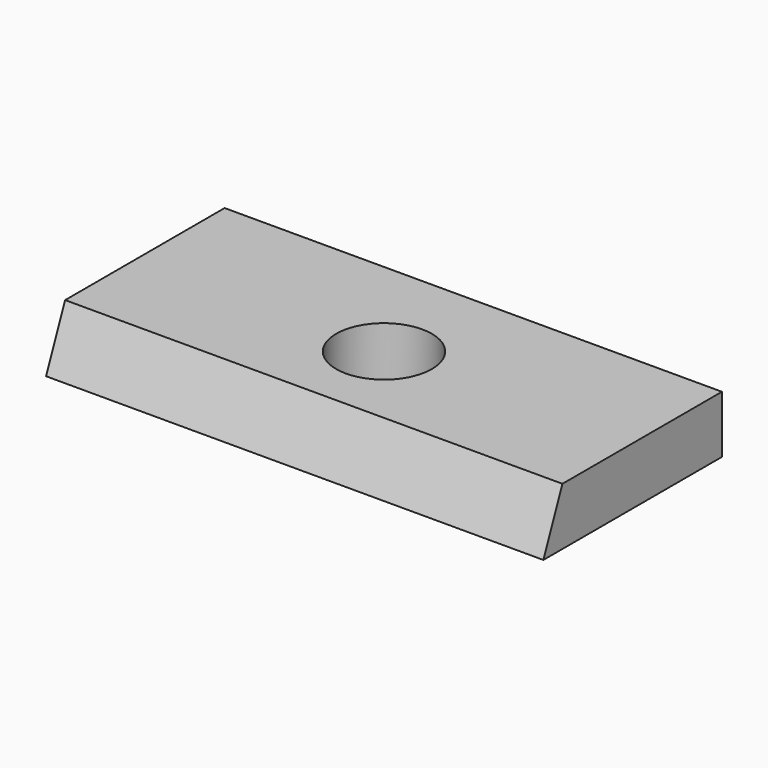
from build123d import *

# Parameters (mm, degrees)
F0_W     = 156
F0_H     = 70
F0_R     = 15
F1_DEPTH = 18
F3_DEPTH = 156


with BuildPart() as f1:
    # F0 (on Top) → F1 (new body)
    with BuildSketch(Plane.XY):
        with Locations((78, -35)):
            Rectangle(F0_W, F0_H)
        with Locations((78, -35)):
            Circle(F0_R, mode=Mode.SUBTRACT)
    extrude(amount=F1_DEPTH)

    # F2 (on Right) → F3 (cut)
    with BuildSketch(Plane.YZ):
        Polygon((-70, 18), (-70, 0), (-62.531915, 18), align=None)
    extrude(amount=F3_DEPTH, mode=Mode.SUBTRACT)


solid = f1.part
